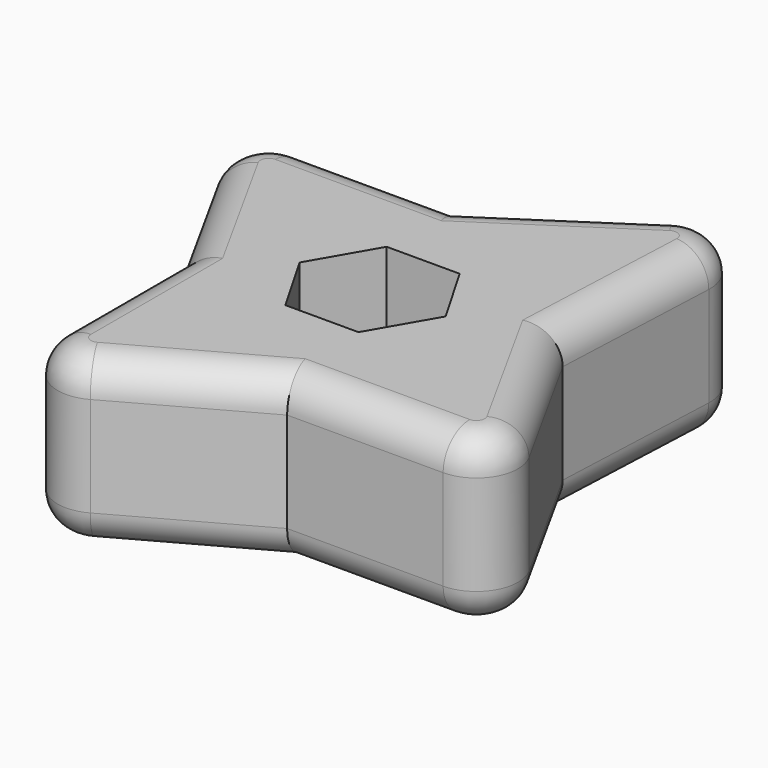
from build123d import *

# Parameters (mm, degrees)
F0_R     = 9.525
F1_DEPTH = 25.4
F2_R     = 5.08
F3_R     = 5.08
F5_DEPTH = 11.2014


with BuildPart() as f1:
    # F0 (on Top) → F1 (new body)
    with BuildSketch(Plane.XY):
        with BuildLine():
            Line((15.347393, 38.231497), (-6.205886, 24.045919))
            Line((-6.205886, 24.045919), (-30.007427, 24.045919))
            ThreePointArc((-30.007427, 24.045919), (-35.477162, 20.92152), (-35.564335, 14.622928))
            Line((-35.564335, 14.622928), (-24.045919, -6.205886))
            Line((-24.045919, -6.205886), (-24.045919, -30.007427))
            ThreePointArc((-24.045919, -30.007427), (-20.92152, -35.477162), (-14.622928, -35.564335))
            Line((-14.622928, -35.564335), (6.205886, -24.045919))
            Line((6.205886, -24.045919), (30.007427, -24.045919))
            ThreePointArc((30.007427, -24.045919), (35.477162, -20.92152), (35.564335, -14.622928))
            Line((35.564335, -14.622928), (24.045919, 6.205886))
            Line((24.045919, 6.205886), (25.182596, 32.654602))
            ThreePointArc((25.182596, 32.654602), (21.970617, 38.451023), (15.347393, 38.231497))
        make_face()
        Circle(F0_R, mode=Mode.SUBTRACT)
    extrude(amount=F1_DEPTH)

    # F2
    f2_edges = [f1.edges().sort_by_distance(p)[0] for p in [
        (-29.805127, 4.208521, 0),
        (4.570753, 31.138708, 0),
    ]]
    fillet(f2_edges, radius=F2_R)

    # F3
    f3_edges = [f1.edges().sort_by_distance(p)[0] for p in [
        (-24.045919, -18.106656, 0),
        (4.570753, 31.138708, 25.4),
        (-18.106656, 24.045919, 25.4),
        (-24.045919, -18.106656, 25.4),
        (18.106656, -24.045919, 25.4),
        (18.106656, -24.045919, 0),
    ]]
    fillet(f3_edges, radius=F3_R)

    # F4 (on face) → F5 (cut)
    with BuildSketch(Plane.XY.offset(25.4)):
        Polygon((-5.572585, -9.652), (5.572585, -9.652), (11.14517, 0), (5.572585, 9.652), (-5.572585, 9.652), (-11.14517, 0), align=None)
    extrude(amount=-F5_DEPTH, mode=Mode.SUBTRACT)


solid = f1.part
